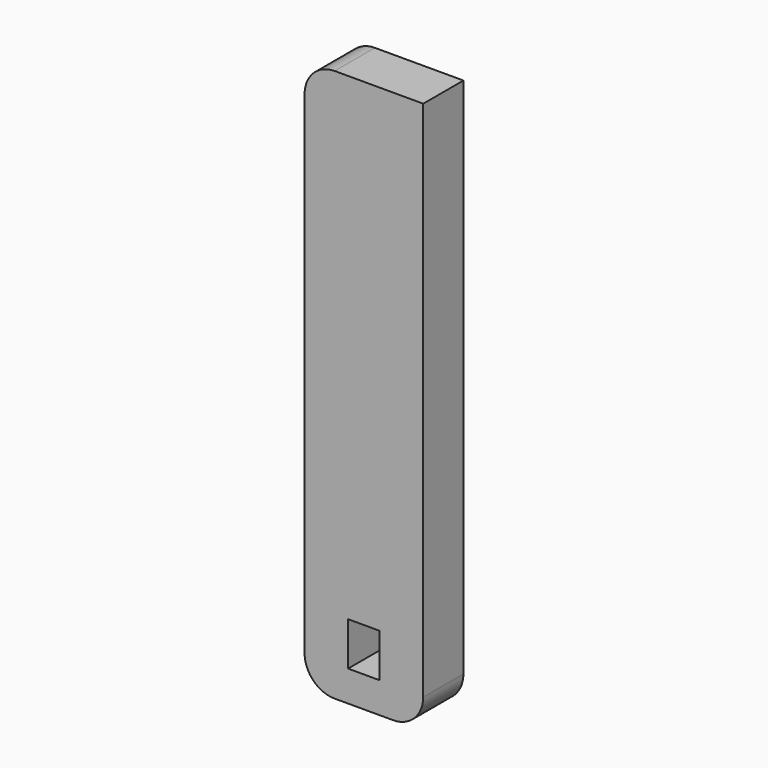
from build123d import *

# Parameters (mm, degrees)
F0_W     = 4
F0_H     = 5.5
F1_DEPTH = 3.175


with BuildPart() as f1:
    # F0 (on Front) → F1 (new body, symmetric)
    with BuildSketch(Plane.XZ):
        with BuildLine():
            Line((3.69, 0), (-3.69, 0))
            ThreePointArc((-3.69, 0), (-6.384077, -1.115923), (-7.5, -3.81))
            Line((-7.5, -3.81), (-7.5, -66.04))
            ThreePointArc((-7.5, -66.04), (-6.384077, -68.734077), (-3.69, -69.85))
            Line((-3.69, -69.85), (3.69, -69.85))
            ThreePointArc((3.69, -69.85), (6.384077, -68.734077), (7.5, -66.04))
            Line((7.5, -66.04), (7.5, 0))
            Line((7.5, 0), (3.69, 0))
        make_face()
        with Locations((0, -63.207053)):
            Rectangle(F0_W, F0_H, mode=Mode.SUBTRACT)
    extrude(amount=F1_DEPTH, both=True)


solid = f1.part
